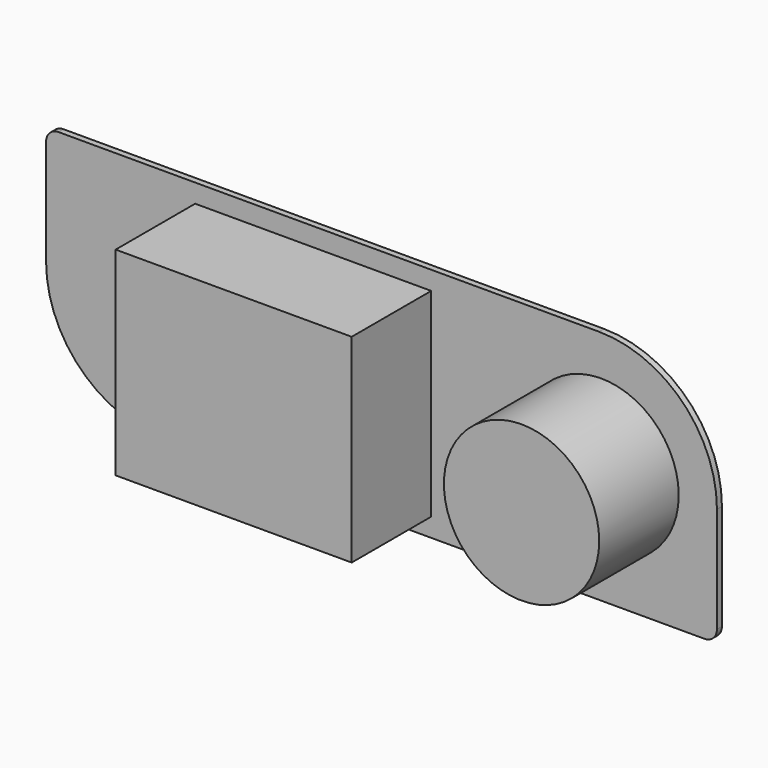
from build123d import *

# Parameters (mm, degrees)
F1_DEPTH = 1
F2_W     = 38
F2_H     = 32
F2_R     = 12.5
F3_DEPTH = 16


with BuildPart() as f1:
    # F0 (on Front) → F1 (new body)
    with BuildSketch(Plane.XZ):
        with BuildLine():
            ThreePointArc((54, 0), (48.435029, 13.435029), (35, 19))
            Line((35, 19), (-52, 19))
            ThreePointArc((-52, 19), (-53.414214, 18.414214), (-54, 17))
            Line((-54, 17), (-54, 0))
            ThreePointArc((-54, 0), (-48.435029, -13.435029), (-35, -19))
            Line((-35, -19), (52, -19))
            ThreePointArc((52, -19), (53.414214, -18.414214), (54, -17))
            Line((54, -17), (54, 0))
        make_face()
    extrude(amount=F1_DEPTH)

    # F2 (on face) → F3 (join)
    with BuildSketch(Plane.XZ.offset(1)):
        with Locations((-11, 0)):
            Rectangle(F2_W, F2_H)
        with Locations((35.345, 0)):
            Circle(F2_R)
    extrude(amount=F3_DEPTH)


solid = f1.part
